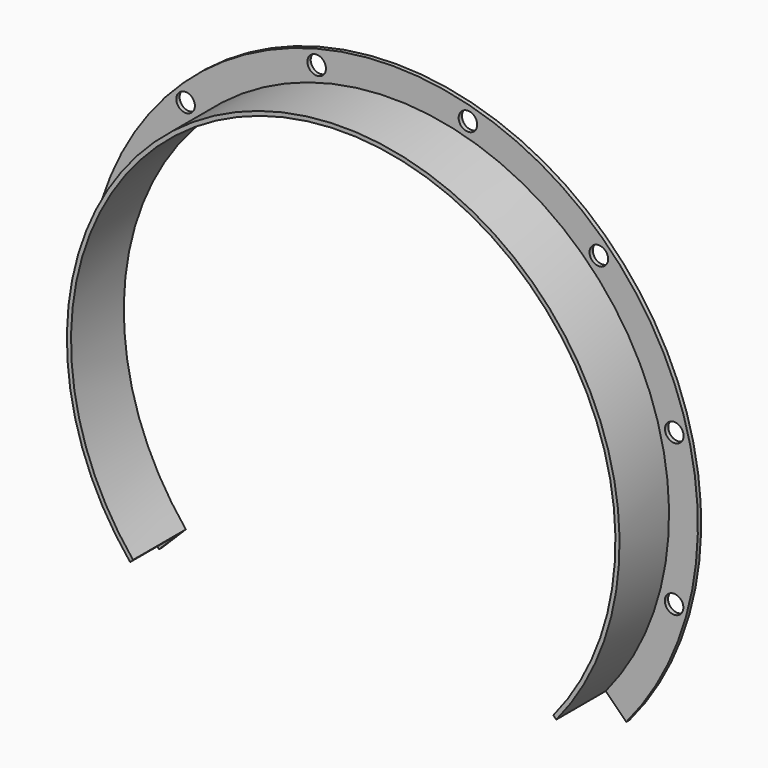
from build123d import *

# Parameters (mm, degrees)
F0_R     = 14.2875
F1_DEPTH = 6.35
F2_DEPTH = 101.6


with BuildPart() as f1:
    # F0 (on Front) → F1 (new body)
    with BuildSketch(Plane.XZ):
        with BuildLine():
            Line((328.093377, -270.84429), (359.655066, -302.414026))
            ThreePointArc((359.655066, -302.414026), (0, 469.9), (-359.655066, -302.414026))
            Line((-359.655066, -302.414026), (-328.00754, -270.758432))
            ThreePointArc((-328.00754, -270.758432), (0.134045, 425.555623), (328.093377, -270.84429))
        make_face()
        with Locations((-435.780706, -117.80084)):
            Circle(F0_R, mode=Mode.SUBTRACT)
        with Locations((433.236139, -118.925363)):
            Circle(F0_R, mode=Mode.SUBTRACT)
        with Locations((-435.479391, 115.051521)):
            Circle(F0_R, mode=Mode.SUBTRACT)
        with Locations((-318.792264, 316.556925)):
            Circle(F0_R, mode=Mode.SUBTRACT)
        with Locations((-116.985546, 432.722159)):
            Circle(F0_R, mode=Mode.SUBTRACT)
        with Locations((433.537454, 113.926999)):
            Circle(F0_R, mode=Mode.SUBTRACT)
        with Locations((115.866816, 432.420844)):
            Circle(F0_R, mode=Mode.SUBTRACT)
        with Locations((317.372219, 315.733717)):
            Circle(F0_R, mode=Mode.SUBTRACT)
    extrude(amount=F1_DEPTH)

    # F0 (on Front) → F2 (join)
    with BuildSketch(Plane.XZ):
        with BuildLine():
            Line((323.581604, -266.331367), (328.093377, -270.84429))
            ThreePointArc((328.093377, -270.84429), (0.134045, 425.555623), (-328.00754, -270.758432))
            Line((-328.00754, -270.758432), (-323.495767, -266.245508))
            ThreePointArc((-323.495767, -266.245508), (0.133875, 419.208866), (323.581604, -266.331367))
        make_face()
    extrude(amount=F2_DEPTH)


solid = f1.part
